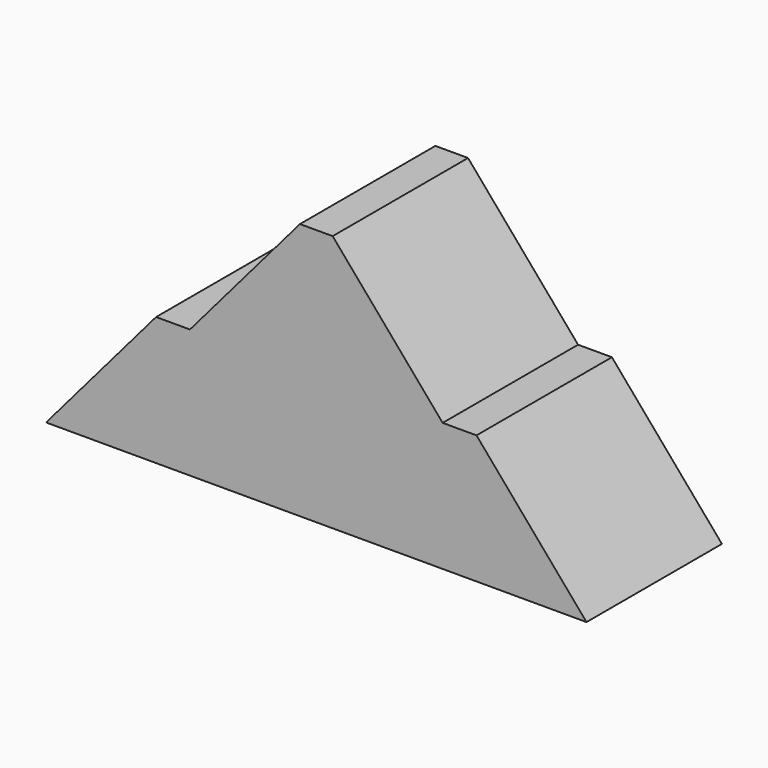
from build123d import *

# Parameters (mm, degrees)
F0_W          = 4.9083643031
F0_H          = 38.6046577501
F1_DEPTH      = 25.4
F3_W          = 4.1379593313
F3_H          = 22.0691054128
F4_DEPTH      = 8.89
F4_DEPTH_BACK = 25.4
F5_W          = 4.6289921738
F5_H          = 21.6983995633
F6_DEPTH      = 17.78


with BuildPart() as f1:
    # F0 (on Front) → F1 (new body)
    with BuildSketch(Plane.XZ):
        Polygon((5.08, 0), (0, 0), (-16.51, -19.302328875), (21.59, -19.302328875), (21.59, 19.302328875), align=None)
        with Locations((24.0441821516, 0)):
            Rectangle(F0_W, F0_H)
        Polygon((26.4983643031, 19.302328875), (26.4983643031, -19.302328875), (64.5983643031, -19.302328875), (48.0883643031, 0), (43.0083643031, 0), align=None)
    extrude(amount=F1_DEPTH)

    # F3 (on offset) → F4 (cut, two sides)
    with BuildSketch(Plane.XY.offset(11.684)) as f4_sk:
        with Locations((18.0260073394, -12.533511268)):
            Rectangle(F3_W, F3_H)
    extrude(amount=-F4_DEPTH, mode=Mode.SUBTRACT)
    extrude(f4_sk.sketch, amount=F4_DEPTH_BACK, mode=Mode.SUBTRACT)

    # F5 (on offset) → F6 (cut)
    with BuildSketch(Plane.XY.offset(11.684)):
        with Locations((9.8292285111, -12.3650435708)):
            Rectangle(F5_W, F5_H)
    extrude(amount=-F6_DEPTH, mode=Mode.SUBTRACT)


solid = f1.part
